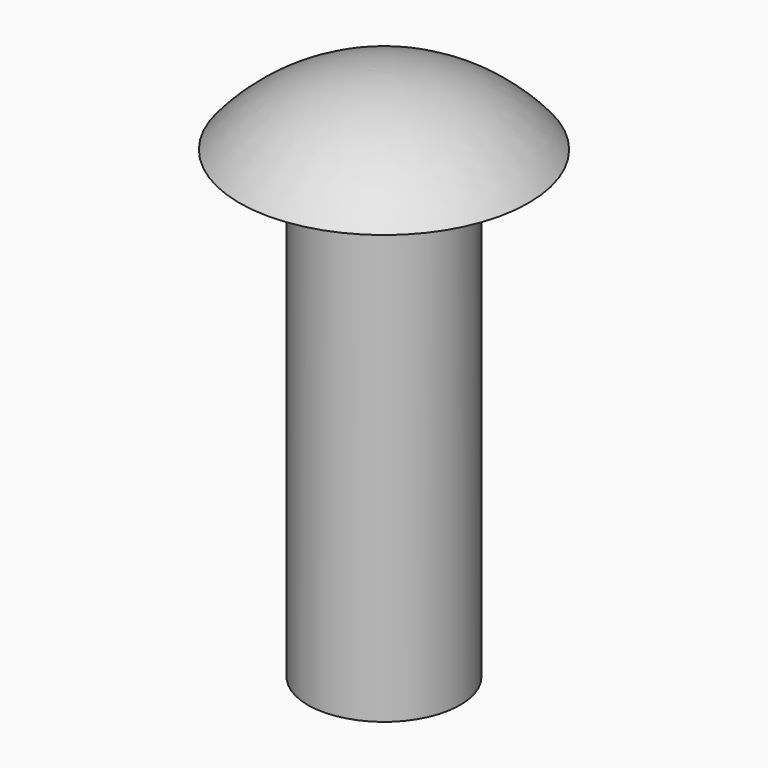
from build123d import *

# Parameters (mm, degrees)
F0_W = 2
F0_H = 12.2


with BuildPart() as f1:
    # F0 (on Front) → F1 (revolve)
    with BuildSketch(Plane.XZ):
        with BuildLine():
            Line((-2, 18.636638), (0, 18.636638))
            Line((0, 18.636638), (0, 20.398787))
            ThreePointArc((0, 20.398787), (-2.09342, 19.934816), (-3.8, 18.636638))
            Line((-3.8, 18.636638), (-2, 18.636638))
        make_face()
        with Locations((-1, 12.536638)):
            Rectangle(F0_W, F0_H)
    revolve(axis=Axis((0, 0, 12.536638), (0, 0, 1)))


solid = f1.part
